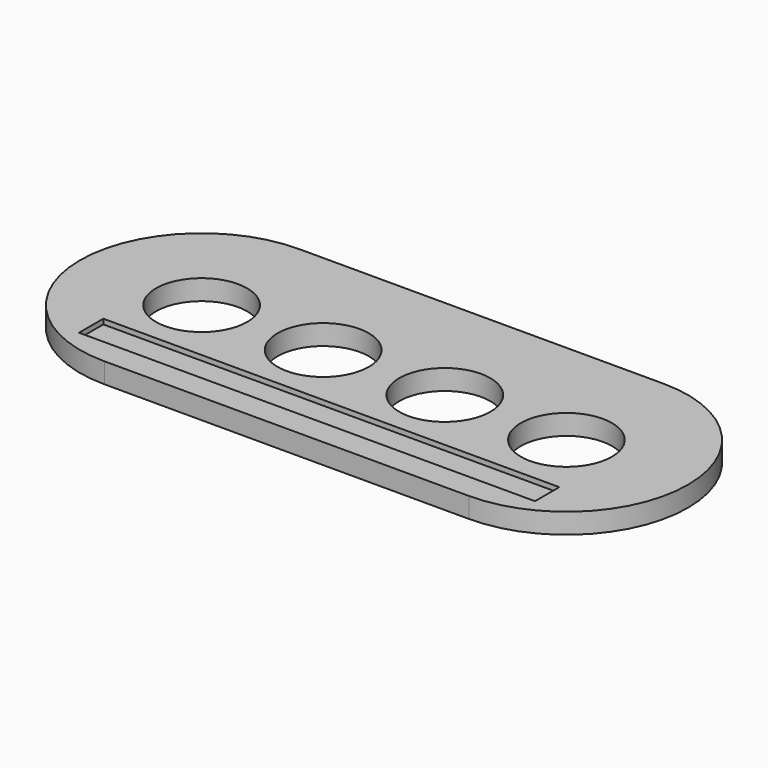
from build123d import *

# Parameters (mm, degrees)
F0_W     = 285.75
F0_H     = 19.05
F1_DEPTH = 9.525
F0_R     = 28.575
F2_DEPTH = 12.7


with BuildPart() as f1:
    # F0 (on Top) → F1 (new body)
    with BuildSketch(Plane.XY):
        with Locations((114.3, -50.8)):
            Rectangle(F0_W, F0_H)
    extrude(amount=F1_DEPTH)

    # F0 (on Top) → F2 (join)
    with BuildSketch(Plane.XY):
        with BuildLine():
            Line((228.6, 76.2), (0, 76.2))
            ThreePointArc((0, 76.2), (-76.2, 0), (0, -76.2))
            Line((0, -76.2), (228.6, -76.2))
            ThreePointArc((228.6, -76.2), (304.8, 0), (228.6, 76.2))
        make_face()
        with Locations((114.3, -50.8)):
            Rectangle(F0_W, F0_H, mode=Mode.SUBTRACT)
        Circle(F0_R, mode=Mode.SUBTRACT)
        with Locations((76.2, 0)):
            Circle(F0_R, mode=Mode.SUBTRACT)
        with Locations((152.4, 0)):
            Circle(F0_R, mode=Mode.SUBTRACT)
        with Locations((228.6, 0)):
            Circle(F0_R, mode=Mode.SUBTRACT)
    extrude(amount=F2_DEPTH)


solid = f1.part
